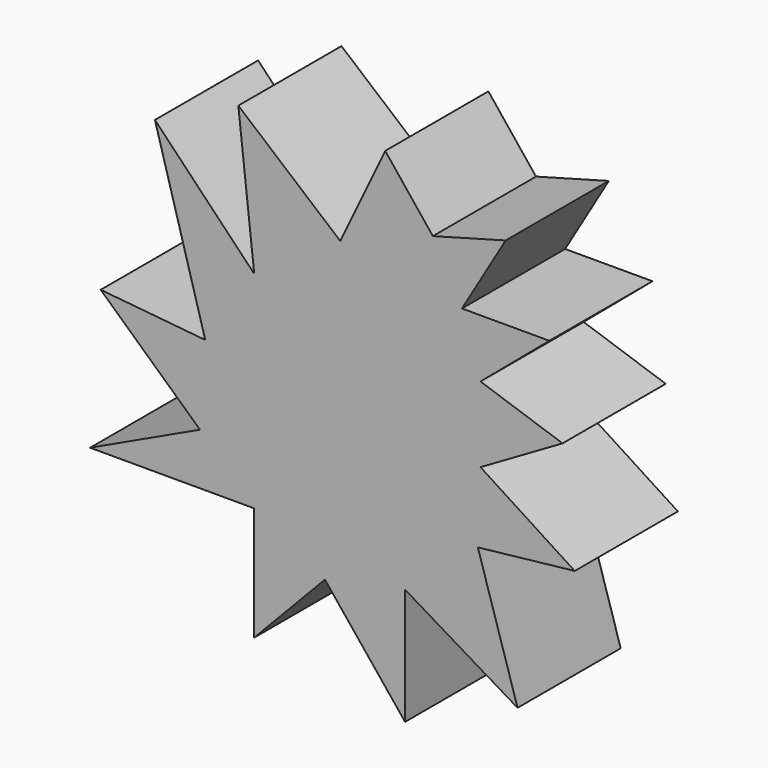
from build123d import *

# Parameters (mm, degrees)
F1_DEPTH = 25.4
F3_DEPTH = 16.764


with BuildPart() as f1:
    # F0 (on Front) → F1 (new body)
    with BuildSketch(Plane.XZ):
        Polygon((21.263605, 30.589338), (11.877785, 42.321607), (3.013405, 23.81069), (-17.061813, 40.757306), (-13.933208, 12.599855), (-33.486992, 32.935791), (-23.579741, -2.000303), (-44.176392, 0), (-24.62261, -17.904047), (-46.26213, -28.072014), (-13.933208, -28.072014), (-13.933208, -50.493687), (0, -35.893526), (15.788542, -55.44731), (15.788542, -32.504205), (37.949499, -45.800779), (30.127985, -20.511219), (49.214386, -18.390509), (30.649418, -6.432494), (46.813879, 2.953323), (30.649418, 8.428382), (44.206712, 19.899936), (26.999379, 19.899936), (35.603043, 34.500092), align=None)
    extrude(amount=F1_DEPTH)

    # F2 (on face) → F3 (cut)
    with BuildSketch(Plane(origin=(0, 0, 0), x_dir=(-1, 0, 0), z_dir=(0, 1, 0))):
        Polygon((-4.059754, 18.938602), (-12.530205, 36.626903), (-20.134146, 27.121981), (-29.169475, 29.586161), (-21.665377, 16.851936), (-35.88584, 16.851936), (-24.563627, 7.271604), (-39.479764, 2.219364), (-24.811447, -6.297724), (-40.35306, -16.308343), (-26.126562, -17.889064), (-32.682285, -39.085902), (-12.740542, -27.120855), (-12.740542, -46.820613), (-0.191097, -31.278385), (10.885207, -42.884888), (10.885207, -25.024014), (32.608178, -25.024014), (19.209153, -18.728086), (35.386026, -3.916043), (19.428806, -5.465774), (27.224869, 22.025603), (9.913309, 4.021581), (13.188563, 33.498873), align=None)
    extrude(amount=-F3_DEPTH, mode=Mode.SUBTRACT)


solid = f1.part
